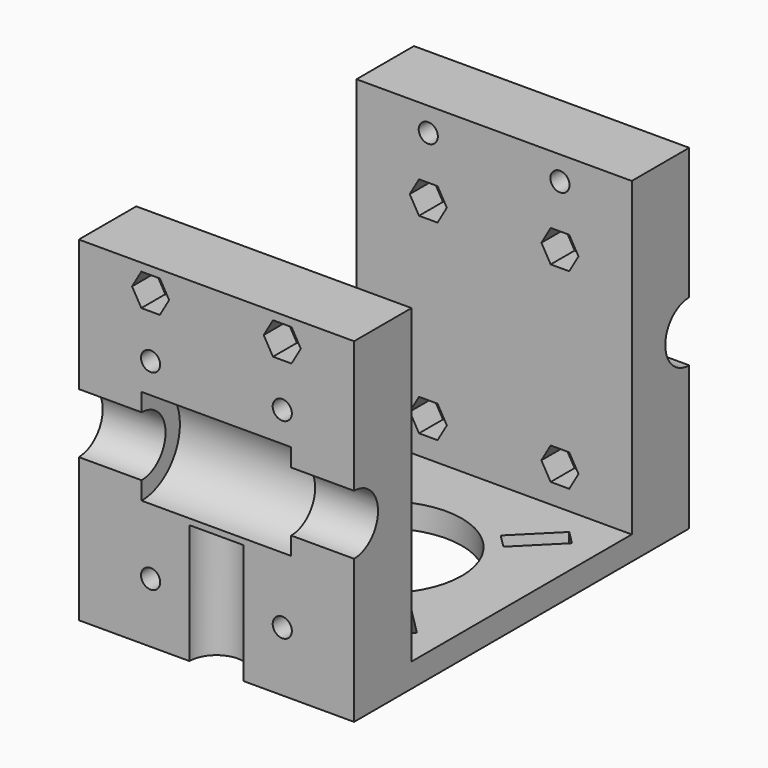
from build123d import *

# Parameters (mm, degrees)
CYLINDER011_R           = 1.6
CYLINDER011_DEPTH       = 70
CYLINDER011_ROLL_ANGLE  = 90
CYLINDER010_R           = 1.6
CYLINDER010_DEPTH       = 70
CYLINDER010_ROLL_ANGLE  = 90
PRISM007_DEPTH          = 5
PRISM007_ROLL_ANGLE     = 90
PRISM006_DEPTH          = 5
PRISM006_ROLL_ANGLE     = 90
PRISM005_DEPTH          = 5
PRISM005_ROLL_ANGLE     = 90
PRISM004_DEPTH          = 5
PRISM004_ROLL_ANGLE     = 90
PRISM003_DEPTH          = 56
PRISM003_ROLL_ANGLE     = 90
PRISM002_DEPTH          = 56
PRISM002_ROLL_ANGLE     = 90
PRISM001_DEPTH          = 56
PRISM001_ROLL_ANGLE     = 90
PRISM_DEPTH             = 56
PRISM_ROLL_ANGLE        = 90
CYLINDER009_R           = 1.6
CYLINDER009_DEPTH       = 72
CYLINDER009_ROLL_ANGLE  = 90
CYLINDER008_R           = 1.6
CYLINDER008_DEPTH       = 72
CYLINDER008_ROLL_ANGLE  = 90
CYLINDER007_R           = 1.6
CYLINDER007_DEPTH       = 72
CYLINDER007_ROLL_ANGLE  = 90
CYLINDER006_R           = 1.6
CYLINDER006_DEPTH       = 72
CYLINDER006_ROLL_ANGLE  = 90
CYLINDER005_R           = 8
CYLINDER005_DEPTH       = 25
CYLINDER005_PITCH_ANGLE = 90
CYLINDER004_R           = 8
CYLINDER004_DEPTH       = 25
CYLINDER004_PITCH_ANGLE = 90
CYLINDER003_R           = 5
CYLINDER003_DEPTH       = 48
CYLINDER003_PITCH_ANGLE = 90
CYLINDER002_R           = 5
CYLINDER002_DEPTH       = 48
CYLINDER002_PITCH_ANGLE = 90
CYLINDER001_R           = 4.5
CYLINDER001_DEPTH       = 20
CYLINDER_R              = 4.5
CYLINDER_DEPTH          = 20
BOX001_W                = 46
BOX001_H                = 12
BOX001_DEPTH            = 56
BOX_W                   = 46
BOX_H                   = 12
BOX_DEPTH               = 56
SKETCH_W                = 46
SKETCH_H                = 70
SKETCH_R                = 13
PAD_DEPTH               = 4


with BuildPart() as cilindro011:
    # Cylinder011 → Cylinder011 (new body)
    with BuildSketch(Plane.XY):
        Circle(CYLINDER011_R)
    extrude(amount=CYLINDER011_DEPTH)


with BuildPart() as cilindro011_1:
    # Cylinder011 roll: moved
    add(cilindro011.part.rotate(Axis((0, 0, 0), (1, 0, 0)), CYLINDER011_ROLL_ANGLE))


with BuildPart() as cilindro011_2:
    # Cylinder011 placement: moved
    add(cilindro011_1.part.moved(Location((34, 70, 52))))


with BuildPart() as cilindro010:
    # Cylinder010 → Cylinder010 (new body)
    with BuildSketch(Plane.XY):
        Circle(CYLINDER010_R)
    extrude(amount=CYLINDER010_DEPTH)


with BuildPart() as cilindro010_1:
    # Cylinder010 roll: moved
    add(cilindro010.part.rotate(Axis((0, 0, 0), (1, 0, 0)), CYLINDER010_ROLL_ANGLE))


with BuildPart() as cilindro010_2:
    # Cylinder010 placement: moved
    add(cilindro010_1.part.moved(Location((12, 70, 52))))


with BuildPart() as prisma007:
    # Prism007 → Prism007 (new body)
    with BuildSketch(Plane.XY):
        Polygon((3.1, 0), (1.55, 2.684679), (-1.55, 2.684679), (-3.1, 0), (-1.55, -2.684679), (1.55, -2.684679), align=None)
    extrude(amount=PRISM007_DEPTH)


with BuildPart() as prisma007_1:
    # Prism007 roll: moved
    add(prisma007.part.rotate(Axis((0, 0, 0), (1, 0, 0)), PRISM007_ROLL_ANGLE))


with BuildPart() as prisma007_2:
    # Prism007 placement: moved
    add(prisma007_1.part.moved(Location((34, 70, 52))))


with BuildPart() as prisma006:
    # Prism006 → Prism006 (new body)
    with BuildSketch(Plane.XY):
        Polygon((3.1, 0), (1.55, 2.684679), (-1.55, 2.684679), (-3.1, 0), (-1.55, -2.684679), (1.55, -2.684679), align=None)
    extrude(amount=PRISM006_DEPTH)


with BuildPart() as prisma006_1:
    # Prism006 roll: moved
    add(prisma006.part.rotate(Axis((0, 0, 0), (1, 0, 0)), PRISM006_ROLL_ANGLE))


with BuildPart() as prisma006_2:
    # Prism006 placement: moved
    add(prisma006_1.part.moved(Location((12, 70, 52))))


with BuildPart() as prisma005:
    # Prism005 → Prism005 (new body)
    with BuildSketch(Plane.XY):
        Polygon((3.1, 0), (1.55, 2.684679), (-1.55, 2.684679), (-3.1, 0), (-1.55, -2.684679), (1.55, -2.684679), align=None)
    extrude(amount=PRISM005_DEPTH)


with BuildPart() as prisma005_1:
    # Prism005 roll: moved
    add(prisma005.part.rotate(Axis((0, 0, 0), (1, 0, 0)), PRISM005_ROLL_ANGLE))


with BuildPart() as prisma005_2:
    # Prism005 placement: moved
    add(prisma005_1.part.moved(Location((34, 5, 52))))


with BuildPart() as prisma004:
    # Prism004 → Prism004 (new body)
    with BuildSketch(Plane.XY):
        Polygon((3.1, 0), (1.55, 2.684679), (-1.55, 2.684679), (-3.1, 0), (-1.55, -2.684679), (1.55, -2.684679), align=None)
    extrude(amount=PRISM004_DEPTH)


with BuildPart() as prisma004_1:
    # Prism004 roll: moved
    add(prisma004.part.rotate(Axis((0, 0, 0), (1, 0, 0)), PRISM004_ROLL_ANGLE))


with BuildPart() as prisma004_2:
    # Prism004 placement: moved
    add(prisma004_1.part.moved(Location((12, 5, 52))))


with BuildPart() as prisma003:
    # Prism003 → Prism003 (new body)
    with BuildSketch(Plane.XY):
        Polygon((3.1, 0), (1.55, 2.684679), (-1.55, 2.684679), (-3.1, 0), (-1.55, -2.684679), (1.55, -2.684679), align=None)
    extrude(amount=PRISM003_DEPTH)


with BuildPart() as prisma003_1:
    # Prism003 roll: moved
    add(prisma003.part.rotate(Axis((0, 0, 0), (1, 0, 0)), PRISM003_ROLL_ANGLE))


with BuildPart() as prisma003_2:
    # Prism003 placement: moved
    add(prisma003_1.part.moved(Location((34, 63, 42))))


with BuildPart() as prisma002:
    # Prism002 → Prism002 (new body)
    with BuildSketch(Plane.XY):
        Polygon((3.1, 0), (1.55, 2.684679), (-1.55, 2.684679), (-3.1, 0), (-1.55, -2.684679), (1.55, -2.684679), align=None)
    extrude(amount=PRISM002_DEPTH)


with BuildPart() as prisma002_1:
    # Prism002 roll: moved
    add(prisma002.part.rotate(Axis((0, 0, 0), (1, 0, 0)), PRISM002_ROLL_ANGLE))


with BuildPart() as prisma002_2:
    # Prism002 placement: moved
    add(prisma002_1.part.moved(Location((12, 63, 42))))


with BuildPart() as prisma001:
    # Prism001 → Prism001 (new body)
    with BuildSketch(Plane.XY):
        Polygon((3.1, 0), (1.55, 2.684679), (-1.55, 2.684679), (-3.1, 0), (-1.55, -2.684679), (1.55, -2.684679), align=None)
    extrude(amount=PRISM001_DEPTH)


with BuildPart() as prisma001_1:
    # Prism001 roll: moved
    add(prisma001.part.rotate(Axis((0, 0, 0), (1, 0, 0)), PRISM001_ROLL_ANGLE))


with BuildPart() as prisma001_2:
    # Prism001 placement: moved
    add(prisma001_1.part.moved(Location((34, 63, 10))))


with BuildPart() as prisma:
    # Prism → Prism (new body)
    with BuildSketch(Plane.XY):
        Polygon((3.1, 0), (1.55, 2.684679), (-1.55, 2.684679), (-3.1, 0), (-1.55, -2.684679), (1.55, -2.684679), align=None)
    extrude(amount=PRISM_DEPTH)


with BuildPart() as prisma_1:
    # Prism roll: moved
    add(prisma.part.rotate(Axis((0, 0, 0), (1, 0, 0)), PRISM_ROLL_ANGLE))


with BuildPart() as prisma_2:
    # Prism placement: moved
    add(prisma_1.part.moved(Location((12, 63, 10))))


with BuildPart() as cilindro009:
    # Cylinder009 → Cylinder009 (new body)
    with BuildSketch(Plane.XY):
        Circle(CYLINDER009_R)
    extrude(amount=CYLINDER009_DEPTH)


with BuildPart() as cilindro009_1:
    # Cylinder009 roll: moved
    add(cilindro009.part.rotate(Axis((0, 0, 0), (1, 0, 0)), CYLINDER009_ROLL_ANGLE))


with BuildPart() as cilindro009_2:
    # Cylinder009 placement: moved
    add(cilindro009_1.part.moved(Location((34, 71, 42))))


with BuildPart() as cilindro008:
    # Cylinder008 → Cylinder008 (new body)
    with BuildSketch(Plane.XY):
        Circle(CYLINDER008_R)
    extrude(amount=CYLINDER008_DEPTH)


with BuildPart() as cilindro008_1:
    # Cylinder008 roll: moved
    add(cilindro008.part.rotate(Axis((0, 0, 0), (1, 0, 0)), CYLINDER008_ROLL_ANGLE))


with BuildPart() as cilindro008_2:
    # Cylinder008 placement: moved
    add(cilindro008_1.part.moved(Location((12, 71, 42))))


with BuildPart() as cilindro007:
    # Cylinder007 → Cylinder007 (new body)
    with BuildSketch(Plane.XY):
        Circle(CYLINDER007_R)
    extrude(amount=CYLINDER007_DEPTH)


with BuildPart() as cilindro007_1:
    # Cylinder007 roll: moved
    add(cilindro007.part.rotate(Axis((0, 0, 0), (1, 0, 0)), CYLINDER007_ROLL_ANGLE))


with BuildPart() as cilindro007_2:
    # Cylinder007 placement: moved
    add(cilindro007_1.part.moved(Location((34, 71, 10))))


with BuildPart() as cilindro006:
    # Cylinder006 → Cylinder006 (new body)
    with BuildSketch(Plane.XY):
        Circle(CYLINDER006_R)
    extrude(amount=CYLINDER006_DEPTH)


with BuildPart() as cilindro006_1:
    # Cylinder006 roll: moved
    add(cilindro006.part.rotate(Axis((0, 0, 0), (1, 0, 0)), CYLINDER006_ROLL_ANGLE))


with BuildPart() as cilindro006_2:
    # Cylinder006 placement: moved
    add(cilindro006_1.part.moved(Location((12, 71, 10))))


with BuildPart() as cilindro005:
    # Cylinder005 → Cylinder005 (new body)
    with BuildSketch(Plane.XY):
        Circle(CYLINDER005_R)
    extrude(amount=CYLINDER005_DEPTH)


with BuildPart() as cilindro005_1:
    # Cylinder005 pitch: moved
    add(cilindro005.part.rotate(Axis((0, 0, 0), (0, 1, 0)), CYLINDER005_PITCH_ANGLE))


with BuildPart() as cilindro005_2:
    # Cylinder005 placement: moved
    add(cilindro005_1.part.moved(Location((10.5, 70, 29))))


with BuildPart() as cilindro004:
    # Cylinder004 → Cylinder004 (new body)
    with BuildSketch(Plane.XY):
        Circle(CYLINDER004_R)
    extrude(amount=CYLINDER004_DEPTH)


with BuildPart() as cilindro004_1:
    # Cylinder004 pitch: moved
    add(cilindro004.part.rotate(Axis((0, 0, 0), (0, 1, 0)), CYLINDER004_PITCH_ANGLE))


with BuildPart() as cilindro004_2:
    # Cylinder004 placement: moved
    add(cilindro004_1.part.moved(Location((10.5, 0, 29))))


with BuildPart() as cilindro003:
    # Cylinder003 → Cylinder003 (new body)
    with BuildSketch(Plane.XY):
        Circle(CYLINDER003_R)
    extrude(amount=CYLINDER003_DEPTH)


with BuildPart() as cilindro003_1:
    # Cylinder003 pitch: moved
    add(cilindro003.part.rotate(Axis((0, 0, 0), (0, 1, 0)), CYLINDER003_PITCH_ANGLE))


with BuildPart() as cilindro003_2:
    # Cylinder003 placement: moved
    add(cilindro003_1.part.moved(Location((-1, 70, 29))))


with BuildPart() as cilindro002:
    # Cylinder002 → Cylinder002 (new body)
    with BuildSketch(Plane.XY):
        Circle(CYLINDER002_R)
    extrude(amount=CYLINDER002_DEPTH)


with BuildPart() as cilindro002_1:
    # Cylinder002 pitch: moved
    add(cilindro002.part.rotate(Axis((0, 0, 0), (0, 1, 0)), CYLINDER002_PITCH_ANGLE))


with BuildPart() as cilindro002_2:
    # Cylinder002 placement: moved
    add(cilindro002_1.part.moved(Location((-1, 0, 29))))


with BuildPart() as cilindro001:
    # Cylinder001 → Cylinder001 (new body)
    with BuildSketch(Plane(origin=(23, 70, 0), x_dir=(1, 0, 0), z_dir=(0, 0, 1))):
        Circle(CYLINDER001_R)
    extrude(amount=CYLINDER001_DEPTH)


with BuildPart() as cilindro:
    # Cylinder → Cylinder (new body)
    with BuildSketch(Plane(origin=(23, 0, 0), x_dir=(1, 0, 0), z_dir=(0, 0, 1))):
        Circle(CYLINDER_R)
    extrude(amount=CYLINDER_DEPTH)


with BuildPart() as cubo001:
    # Box001 → Box001 (new body)
    with BuildSketch(Plane(origin=(0, 58, 0), x_dir=(1, 0, 0), z_dir=(0, 0, 1))):
        with Locations((23, 6)):
            Rectangle(BOX001_W, BOX001_H)
    extrude(amount=BOX001_DEPTH)


with BuildPart() as cubo:
    # Box → Box (new body)
    with BuildSketch(Plane.XY):
        with Locations((23, 6)):
            Rectangle(BOX_W, BOX_H)
    extrude(amount=BOX_DEPTH)


with BuildPart() as cut019:
    # Sketch → Pad (new body)
    with BuildSketch(Plane.XY):
        with Locations((23, 35)):
            Rectangle(SKETCH_W, SKETCH_H)
        with Locations((23, 35)):
            Circle(SKETCH_R, mode=Mode.SUBTRACT)
        Polygon((39.19, 53.452742), (32.826039, 47.088781), (35.088781, 44.826039), (41.452742, 51.19), align=None, mode=Mode.SUBTRACT)
        Polygon((10.911219, 44.826039), (13.173961, 47.088781), (6.81, 53.452742), (4.547258, 51.19), align=None, mode=Mode.SUBTRACT)
        Polygon((4.547258, 18.81), (10.911219, 25.173961), (13.173961, 22.911219), (6.81, 16.547258), align=None, mode=Mode.SUBTRACT)
        Polygon((39.19, 16.547258), (32.826039, 22.911219), (35.088781, 25.173961), (41.452742, 18.81), align=None, mode=Mode.SUBTRACT)
    extrude(amount=PAD_DEPTH)

    # Fusion: union Cubo
    add(cubo.part)

    # Fusion001: union Cubo001
    add(cubo001.part)

    # Cut: cut Cilindro
    add(cilindro.part, mode=Mode.SUBTRACT)

    # Cut001: cut Cilindro001
    add(cilindro001.part, mode=Mode.SUBTRACT)

    # Cut002: cut Cilindro002
    add(cilindro002_2.part, mode=Mode.SUBTRACT)

    # Cut003: cut Cilindro003
    add(cilindro003_2.part, mode=Mode.SUBTRACT)

    # Cut004: cut Cilindro004
    add(cilindro004_2.part, mode=Mode.SUBTRACT)

    # Cut005: cut Cilindro005
    add(cilindro005_2.part, mode=Mode.SUBTRACT)

    # Cut006: cut Cilindro006
    add(cilindro006_2.part, mode=Mode.SUBTRACT)

    # Cut007: cut Cilindro007
    add(cilindro007_2.part, mode=Mode.SUBTRACT)

    # Cut008: cut Cilindro008
    add(cilindro008_2.part, mode=Mode.SUBTRACT)

    # Cut009: cut Cilindro009
    add(cilindro009_2.part, mode=Mode.SUBTRACT)

    # Cut010: cut Prisma
    add(prisma_2.part, mode=Mode.SUBTRACT)

    # Cut011: cut Prisma001
    add(prisma001_2.part, mode=Mode.SUBTRACT)

    # Cut012: cut Prisma002
    add(prisma002_2.part, mode=Mode.SUBTRACT)

    # Cut013: cut Prisma003
    add(prisma003_2.part, mode=Mode.SUBTRACT)

    # Cut014: cut Prisma004
    add(prisma004_2.part, mode=Mode.SUBTRACT)

    # Cut015: cut Prisma005
    add(prisma005_2.part, mode=Mode.SUBTRACT)

    # Cut016: cut Prisma006
    add(prisma006_2.part, mode=Mode.SUBTRACT)

    # Cut017: cut Prisma007
    add(prisma007_2.part, mode=Mode.SUBTRACT)

    # Cut018: cut Cilindro010
    add(cilindro010_2.part, mode=Mode.SUBTRACT)

    # Cut019: cut Cilindro011
    add(cilindro011_2.part, mode=Mode.SUBTRACT)


solid = cut019.part
